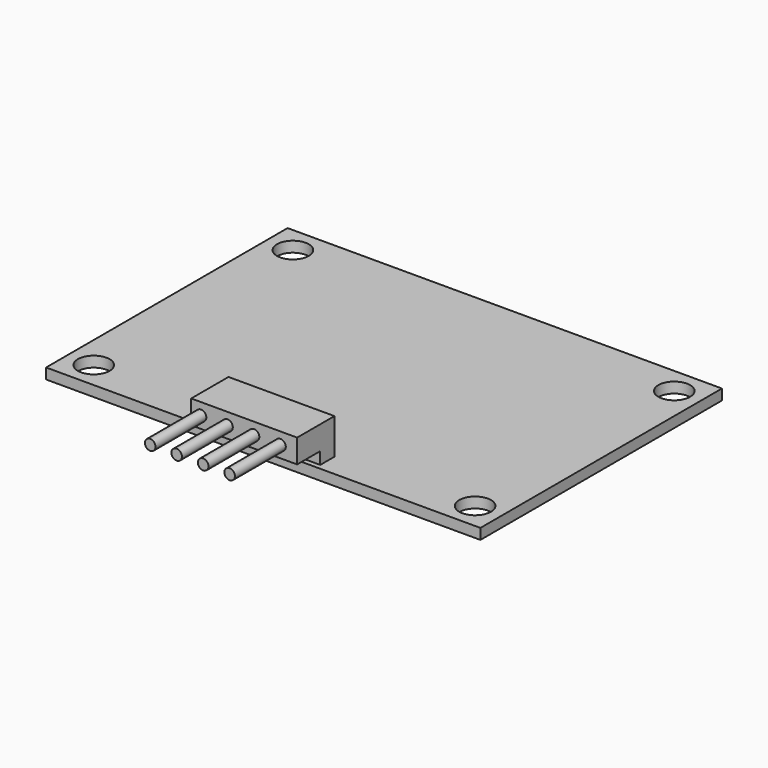
from build123d import *

# Parameters (mm, degrees)
F0_W          = 41
F0_H          = 28.5
F0_R          = 1.5
F1_DEPTH      = 1
F3_DEPTH      = 5
F3_DEPTH_BACK = 5
F4_R          = 0.5
F5_DEPTH      = 6


with BuildPart() as f1:
    # F0 (on Top) → F1 (new body)
    with BuildSketch(Plane.XY):
        Rectangle(F0_W, F0_H)
        with Locations((-18, -11.75)):
            Circle(F0_R, mode=Mode.SUBTRACT)
        with Locations((18, -11.75)):
            Circle(F0_R, mode=Mode.SUBTRACT)
        with Locations((-18, 11.75)):
            Circle(F0_R, mode=Mode.SUBTRACT)
        with Locations((18, 11.75)):
            Circle(F0_R, mode=Mode.SUBTRACT)
    extrude(amount=F1_DEPTH)

    # F2 (on Right) → F3 (join, two sides)
    with BuildSketch(Plane.YZ) as f3_sk:
        Polygon((-13.774308, 0.989061), (-12.100797, 0.989061), (-12.100797, 4.378995), (-16.49913, 4.378995), (-16.49913, 2.147646), (-13.774308, 2.147646), align=None)
    extrude(amount=F3_DEPTH)
    extrude(f3_sk.sketch, amount=-F3_DEPTH_BACK)

    # F4 (on face) → F5 (join)
    with BuildSketch(Plane.XZ.offset(16.49913)):
        with Locations((-4.071627, 3.263321)):
            Circle(F4_R)
        with Locations((-1.571627, 3.263321)):
            Circle(F4_R)
        with Locations((0.928373, 3.263321)):
            Circle(F4_R)
        with Locations((3.428373, 3.263321)):
            Circle(F4_R)
    extrude(amount=F5_DEPTH)


solid = f1.part
